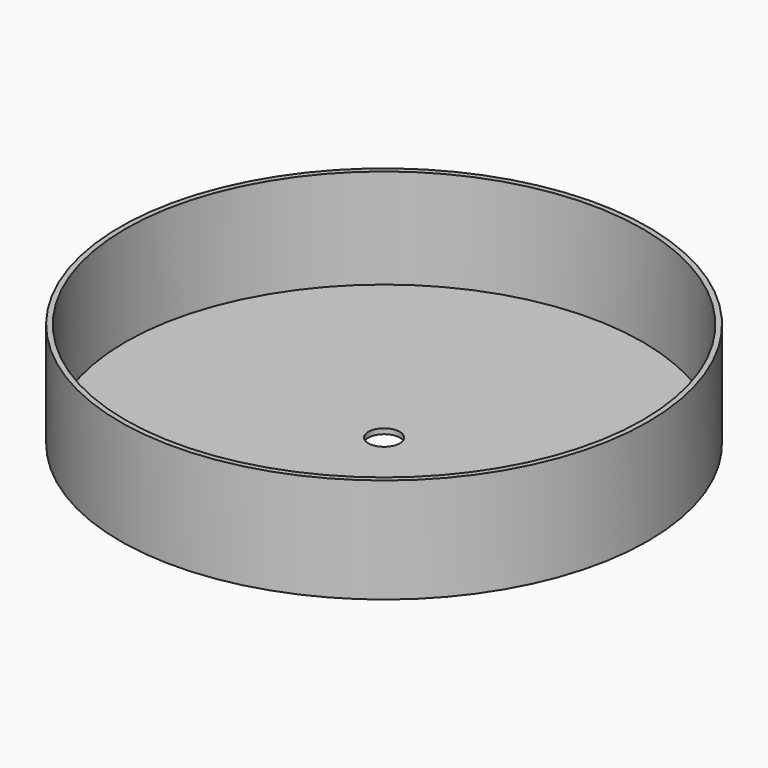
from build123d import *

# Parameters (mm, degrees)
F0_W = 64.1248
F0_H = 25.463037
F2_T = -1.27
F4_D = 7.62


with BuildPart() as f1:
    # F0 (on Front) → F1 (revolve)
    with BuildSketch(Plane.XZ):
        with Locations((32.0624, 12.731518)):
            Rectangle(F0_W, F0_H)
    revolve(axis=Axis((0, 0, 5.022522), (0, 0, -1)))

    # F2
    f2_openings = [f1.faces().sort_by_distance(p)[0] for p in [
        (0, 0, 25.463037),
    ]]
    offset(amount=F2_T, openings=f2_openings)

    # F4 (through all)
    with Locations(Plane(origin=(0, 0, 0), x_dir=(1, 0, 0), z_dir=(0, 0, -1))):
        with Locations((0, 0)):
            Hole(F4_D / 2)


solid = f1.part
